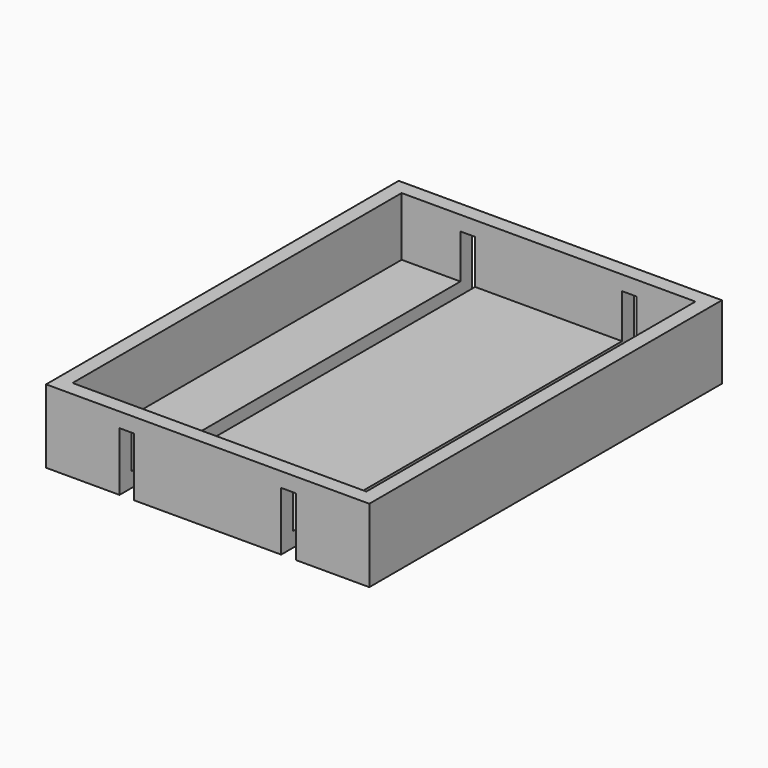
from build123d import *

# Parameters (mm, degrees)
F0_W     = 279.4
F0_H     = 381
F0_W_2   = 254
F0_H_2   = 355.6
F1_DEPTH = 50.8
F2_DEPTH = 12.7
F3_W     = 12.7
F3_H     = 381
F4_DEPTH = 50.8


with BuildPart() as f1:
    # F0 (on Top) → F1 (new body)
    with BuildSketch(Plane.XY):
        Rectangle(F0_W, F0_H)
        Rectangle(F0_W_2, F0_H_2, mode=Mode.SUBTRACT)
    extrude(amount=F1_DEPTH)

    # F0 (on Top) → F2 (join)
    with BuildSketch(Plane.XY):
        Rectangle(F0_W, F0_H)
        Rectangle(F0_W_2, F0_H_2, mode=Mode.SUBTRACT)
        Rectangle(F0_W_2, F0_H_2)
    extrude(amount=-F2_DEPTH)

    # F3 (on face) → F4 (cut)
    with BuildSketch(Plane(origin=(0, 0, -12.7), x_dir=(1, 0, 0), z_dir=(0, 0, -1))):
        with Locations((-69.85, 0)):
            Rectangle(F3_W, F3_H)
        with Locations((69.85, 0)):
            Rectangle(F3_W, F3_H)
    extrude(amount=-F4_DEPTH, mode=Mode.SUBTRACT)


solid = f1.part
